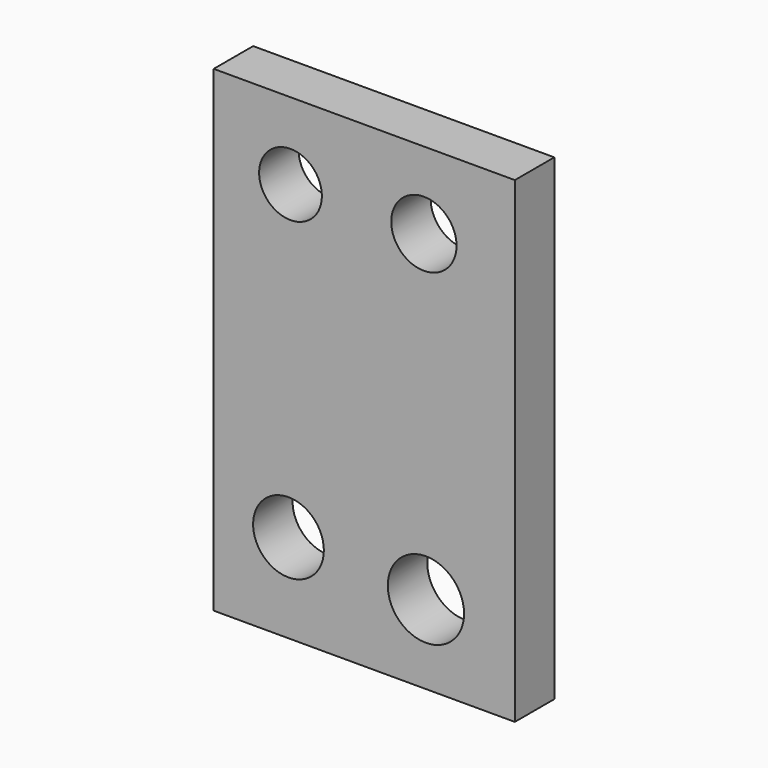
from build123d import *

# Parameters (mm, degrees)
F0_W     = 27.91918
F0_H     = 44.220986
F1_DEPTH = 4.572
F2_R     = 2.908875
F2_R_2   = 3.535422
F2_R_3   = 3.27776
F2_R_4   = 3.027169
F3_DEPTH = 25.4


with BuildPart() as f1:
    # F0 (on Front) → F1 (new body)
    with BuildSketch(Plane.XZ):
        with Locations((-3.466476, -3.560164)):
            Rectangle(F0_W, F0_H)
    extrude(amount=F1_DEPTH)

    # F2 (on Front) → F3 (cut)
    with BuildSketch(Plane.XZ):
        with Locations((-10.305738, 11.430001)):
            Circle(F2_R)
        with Locations((2.248525, -18.362951)):
            Circle(F2_R_2)
        with Locations((-10.493115, -17.426066)):
            Circle(F2_R_3)
        with Locations((2.061148, 11.430001)):
            Circle(F2_R_4)
    extrude(amount=F3_DEPTH, mode=Mode.SUBTRACT)


solid = f1.part
